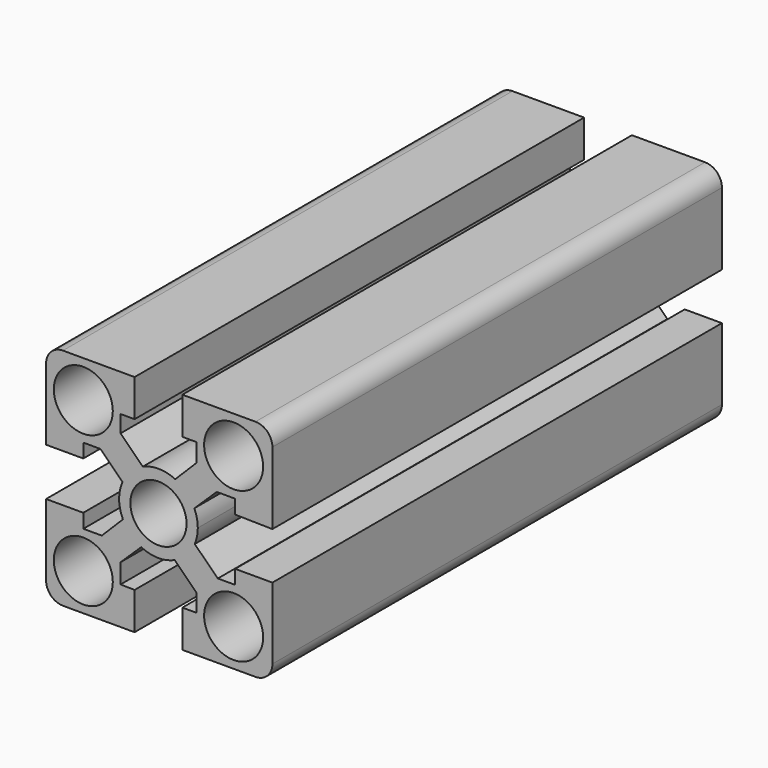
from build123d import *

# Parameters (mm, degrees)
F1_DEPTH = 1000
F2_R     = 50
F2_R_2   = 52.5
F3_DEPTH = 2000
F4_R     = 30


with BuildPart() as f1:
    # F0 (on Front) → F1 (new body)
    with BuildSketch(Plane.XZ):
        with BuildLine():
            Line((-200, -133.75), (-200, -200))
            Line((-200, -200), (-42.5, -200))
            Line((-42.5, -200), (-42.5, -133.75))
            Line((-42.5, -133.75), (-67.5, -133.297282))
            Line((-67.5, -133.297282), (-67.5, -98.492385))
            Line((-67.5, -98.492385), (-30.746254, -62.88615))
            ThreePointArc((-30.746254, -62.88615), (-49.801599, -49.19147), (-63.260358, -29.96877))
            Line((-63.260358, -29.96877), (-100.854047, -67.608259))
            Line((-100.854047, -67.608259), (-133.75, -67.608259))
            Line((-133.75, -67.608259), (-133.75, -42.5))
            Line((-133.75, -42.5), (-200, -42.5))
            Line((-200, -42.5), (-200, -133.75))
        make_face()
        with BuildLine():
            ThreePointArc((-63.260358, -29.96877), (-49.801599, -49.19147), (-30.746254, -62.88615))
            ThreePointArc((-30.746254, -62.88615), (-1.031839, -69.992395), (28.879141, -63.765157))
            ThreePointArc((28.879141, -63.765157), (50.203622, -48.781106), (64.5687, -27.034847))
            ThreePointArc((64.5687, -27.034847), (68.628744, -13.787512), (70, 0))
            ThreePointArc((70, 0), (68.43998, 14.695888), (63.829453, 28.736751))
            ThreePointArc((63.829453, 28.736751), (49.94511, 49.045754), (29.891725, 63.296799))
            ThreePointArc((29.891725, 63.296799), (1.135837, 69.990784), (-27.822117, 64.233401))
            ThreePointArc((-27.822117, 64.233401), (-49.28701, 49.707048), (-63.994991, 28.366197))
            ThreePointArc((-63.994991, 28.366197), (-69.99445, -0.881465), (-63.260358, -29.96877))
        make_face()
        with BuildLine():
            ThreePointArc((64.5687, -27.034847), (50.203622, -48.781106), (28.879141, -63.765157))
            Line((28.879141, -63.765157), (67.5, -102.077139))
            Line((67.5, -102.077139), (67.5, -133.75))
            Line((67.5, -133.75), (42.5, -133.75))
            Line((42.5, -133.75), (42.5, -200))
            Line((42.5, -200), (202.712331, -200))
            Line((202.712331, -200), (202.712331, -42.5))
            Line((202.712331, -42.5), (136.462331, -42.5))
            Line((136.462331, -42.5), (136.462331, -67.608259))
            Line((136.462331, -67.608259), (105.641152, -67.608259))
            Line((105.641152, -67.608259), (64.5687, -27.034847))
        make_face()
        with BuildLine():
            Line((-103.335165, 67.391741), (-63.994991, 28.366197))
            ThreePointArc((-63.994991, 28.366197), (-49.28701, 49.707048), (-27.822117, 64.233401))
            Line((-27.822117, 64.233401), (-67.5, 103.429188))
            Line((-67.5, 103.429188), (-67.5, 133.75))
            Line((-67.5, 133.75), (-42.5, 133.75))
            Line((-42.5, 133.75), (-42.5, 199.783482))
            Line((-42.5, 199.783482), (-200, 199.783482))
            Line((-200, 199.783482), (-200, 42.5))
            Line((-200, 42.5), (-133.75, 42.5))
            Line((-133.75, 42.5), (-133.75, 67.391741))
            Line((-133.75, 67.391741), (-103.335165, 67.391741))
        make_face()
        with BuildLine():
            Line((67.5, 100.950892), (29.891725, 63.296799))
            ThreePointArc((29.891725, 63.296799), (49.94511, 49.045754), (63.829453, 28.736751))
            Line((63.829453, 28.736751), (103.730209, 67.391741))
            Line((103.730209, 67.391741), (136.462331, 67.391741))
            Line((136.462331, 67.391741), (136.462331, 42.5))
            Line((136.462331, 42.5), (202.712331, 41.300298))
            Line((202.712331, 41.300298), (202.712331, 199.783482))
            Line((202.712331, 199.783482), (42.5, 199.783482))
            Line((42.5, 199.783482), (42.5, 133.75))
            Line((42.5, 133.75), (67.5, 133.75))
            Line((67.5, 133.75), (67.5, 100.950892))
        make_face()
    extrude(amount=-F1_DEPTH)

    # F2 (on face) → F3 (cut)
    with BuildSketch(Plane.XZ):
        Circle(F2_R)
        with Locations((-133.75, 133.75)):
            Circle(F2_R_2)
        with Locations((133.75, 133.75)):
            Circle(F2_R_2)
        with Locations((133.75, -133.75)):
            Circle(F2_R_2)
        with Locations((-133.75, -133.75)):
            Circle(F2_R_2)
    extrude(amount=-F3_DEPTH, mode=Mode.SUBTRACT)

    # F4
    f4_edges = [f1.edges().sort_by_distance(p)[0] for p in [
        (202.712331, 500, 199.783482),
        (-200, 500, 199.783482),
        (202.712331, 500, -200),
        (-200, 500, -200),
    ]]
    fillet(f4_edges, radius=F4_R)


solid = f1.part
